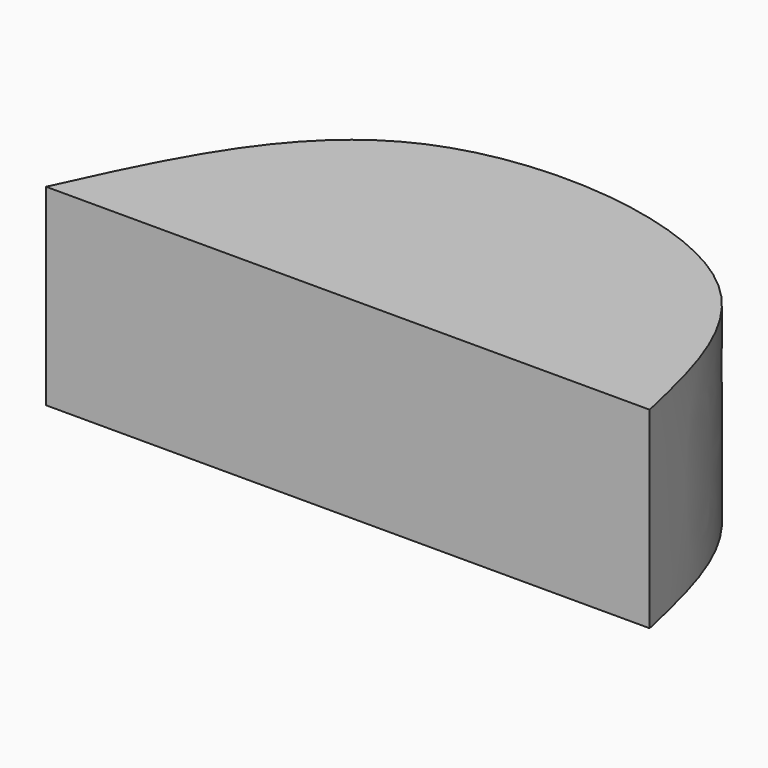
from build123d import *

# Parameters (mm, degrees)
F1_DEPTH = 25.4


with BuildPart() as f1:
    # F0 (on Top) → F1 (new body)
    with BuildSketch(Plane.XY):
        with BuildLine():
            add(Edge.make_bspline(
                [(-113.4550198913, -27.2571612149), (-107.4446104511, -14.1907105234), (-95.2560391369, 12.3068796431), (-41.3005077973, 5.990271406), (-36.1503590359, -16.7787711995), (-33.7802432477, -27.2571612149)],
                knots=[0, 0, 0, 0, 0.3443224096, 0.6982549668, 1, 1, 1, 1], degree=3))
            Line((-113.4550198913, -27.2571612149), (-33.7802432477, -27.2571612149))
        make_face()
    extrude(amount=F1_DEPTH)


solid = f1.part
